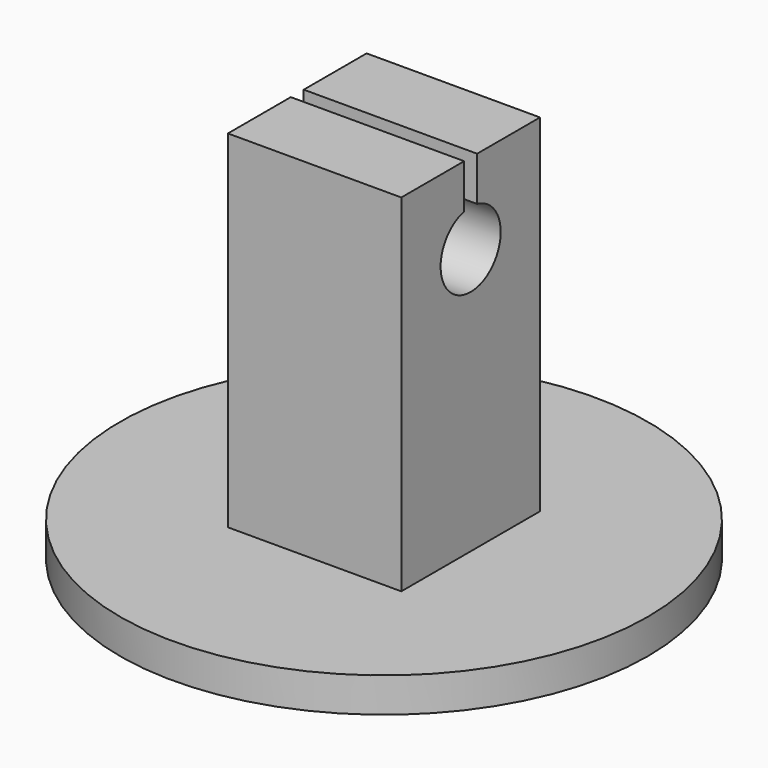
from build123d import *

# Parameters (mm, degrees)
F0_R     = 22.8354
F1_DEPTH = 3
F2_W     = 15
F2_H     = 15
F3_DEPTH = 30
F5_DEPTH = 25


with BuildPart() as f1:
    # F0 (on Top) → F1 (new body)
    with BuildSketch(Plane.XY):
        Circle(F0_R)
    extrude(amount=F1_DEPTH)

    # F2 (on face) → F3 (join)
    with BuildSketch(Plane.XY.offset(3)):
        Rectangle(F2_W, F2_H)
    extrude(amount=F3_DEPTH)

    # F4 (on face) → F5 (cut)
    with BuildSketch(Plane(origin=(-7.5, 0, 0), x_dir=(0, -1, 0), z_dir=(-1, 0, 0))):
        with BuildLine():
            Line((-0.7, 33), (-0.7, 29.17372))
            ThreePointArc((-0.7, 29.17372), (0, 22.75), (0.7, 29.17372))
            Line((0.7, 29.17372), (0.7, 33))
            Line((0.7, 33), (-0.7, 33))
        make_face()
    extrude(amount=-F5_DEPTH, mode=Mode.SUBTRACT)


solid = f1.part
